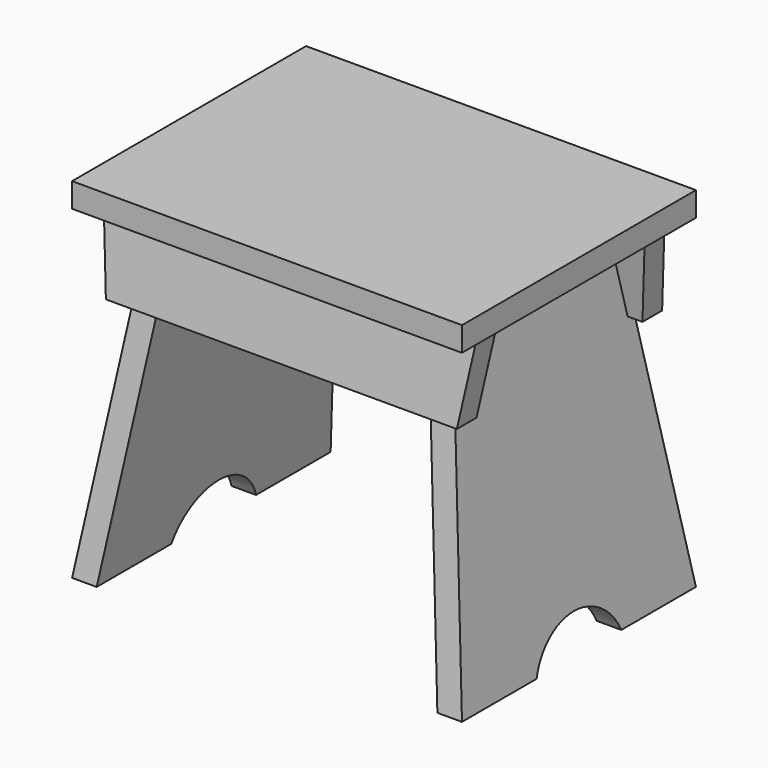
from build123d import *

# Parameters (mm, degrees)
F1_DEPTH      = 114.3
F2_DEPTH      = 114.3
F2_DEPTH_BACK = 114.3
F4_DEPTH      = 152.401
F4_DEPTH_BACK = 152.401
F6_DEPTH      = 152.4
F6_DEPTH_BACK = 152.4
F7_DEPTH      = 114.3010000004
F7_DEPTH_BACK = 114.3010000004


with BuildPart() as f1:
    # F0 (on Front) → F1 (new body, symmetric)
    with BuildSketch(Plane.XZ):
        Polygon((152.4, -9.525), (152.4, 9.525), (-152.4, 9.525), (-152.4, -9.525), (-146.05, -9.525), (-116.7026279856, -9.525), (-97.4654127291, -9.525), (97.4654127291, -9.525), (116.7026279856, -9.525), (146.05, -9.525), align=None)
    extrude(amount=F1_DEPTH, both=True)


with BuildPart() as f2:
    # F0 (on Front) → F2 (new body, two sides)
    with BuildSketch(Plane.XZ) as f2_sk:
        Polygon((-97.4654127291, -9.525), (-116.7026279856, -9.525), (-125.568870422, -72.6115929831), (-106.3316551655, -72.6115929831), align=None)
        Polygon((-106.3316551655, -72.6115929831), (-125.568870422, -72.6115929831), (-152.4, -263.525), (-133.1627847435, -263.525), align=None)
    extrude(amount=F2_DEPTH)
    extrude(f2_sk.sketch, amount=-F2_DEPTH_BACK)


with BuildPart() as f2b:
    # F0 (on Front) → F2, piece 2 (new body, two sides)
    with BuildSketch(Plane.XZ) as f2_2_sk:
        Polygon((125.568870422, -72.6115929831), (116.7026279856, -9.525), (97.4654127291, -9.525), (106.3316551655, -72.6115929831), align=None)
        Polygon((152.4, -263.525), (125.568870422, -72.6115929831), (106.3316551655, -72.6115929831), (133.1627847435, -263.525), align=None)
    extrude(amount=F2_DEPTH)
    extrude(f2_2_sk.sketch, amount=-F2_DEPTH_BACK)


with BuildPart() as f4_tool:
    # F3 (on Right) → F4 (new body, two sides)
    with BuildSketch(Plane.YZ) as f4_sk:
        with BuildLine():
            Line((-3e-10, -263.525), (41.4061397314, -263.525))
            ThreePointArc((41.4061397314, -263.525), (0, -235.0649995652), (-41.4061397314, -263.525))
            Line((-41.4061397314, -263.525), (-3e-10, -263.525))
        make_face()
        Polygon((-114.3000000004, -263.525), (-78.6026279859, -9.525), (-114.3000000004, -9.525), align=None)
        Polygon((114.2999999998, -263.525), (114.2999999998, -9.525), (78.6026279859, -9.525), align=None)
    extrude(amount=F4_DEPTH)
    extrude(f4_sk.sketch, amount=-F4_DEPTH_BACK)


with BuildPart() as f2_1:
    add(f2.part)

    # F4: cut by f4_tool
    add(f4_tool.part, mode=Mode.SUBTRACT)


with BuildPart() as f2b_1:
    add(f2b.part)

    # F4: cut by f4_tool
    add(f4_tool.part, mode=Mode.SUBTRACT)


with BuildPart() as f6:
    # F5 (on Right) → F6 (new body, two sides)
    with BuildSketch(Plane.YZ) as f6_sk:
        Polygon((78.6026279859, -9.525), (72.1902229004, -9.525), (81.0564653368, -72.6115929831), (87.4688704223, -72.6115929831), align=None)
        Polygon((91.4274381569, -9.525), (78.6026279859, -9.525), (87.4688704223, -72.6115929831), (100.2936805933, -72.6115929831), align=None)
    extrude(amount=F6_DEPTH)
    extrude(f6_sk.sketch, amount=-F6_DEPTH_BACK)


with BuildPart() as f6b:
    # F5 (on Right) → F6, piece 2 (new body, two sides)
    with BuildSketch(Plane.YZ) as f6_2_sk:
        Polygon((-100.2936805933, -72.6115929831), (-87.4688704223, -72.6115929831), (-78.6026279859, -9.525), (-91.4274381569, -9.525), align=None)
        Polygon((-78.6026279859, -9.525), (-87.4688704223, -72.6115929831), (-81.0564653368, -72.6115929831), (-72.1902229004, -9.525), align=None)
    extrude(amount=F6_DEPTH)
    extrude(f6_2_sk.sketch, amount=-F6_DEPTH_BACK)


with BuildPart() as f7_tool:
    # F0 (on Front) → F7 (new body, two sides)
    with BuildSketch(Plane.XZ) as f7_sk:
        Polygon((-146.05, -9.525), (-152.4, -9.525), (-152.4, -72.6115929831), (-137.1837575636, -72.6115929831), align=None)
        Polygon((152.4, -72.6115929831), (152.4, -9.525), (146.05, -9.525), (137.1837575636, -72.6115929831), align=None)
    extrude(amount=-F7_DEPTH)
    extrude(f7_sk.sketch, amount=F7_DEPTH_BACK)


with BuildPart() as f6_1:
    add(f6.part)

    # F7: cut by f7_tool
    add(f7_tool.part, mode=Mode.SUBTRACT)

    # F9: cut F2
    add(f2_1.part, mode=Mode.SUBTRACT)

    # F10: cut F2b
    add(f2b_1.part, mode=Mode.SUBTRACT)


with BuildPart() as f6b_1:
    add(f6b.part)

    # F7: cut by f7_tool
    add(f7_tool.part, mode=Mode.SUBTRACT)

    # F8: cut F2
    add(f2_1.part, mode=Mode.SUBTRACT)

    # F11: cut F2b
    add(f2b_1.part, mode=Mode.SUBTRACT)


solid = Compound([f1.part, f2_1.part, f2b_1.part, f6_1.part, f6b_1.part])
